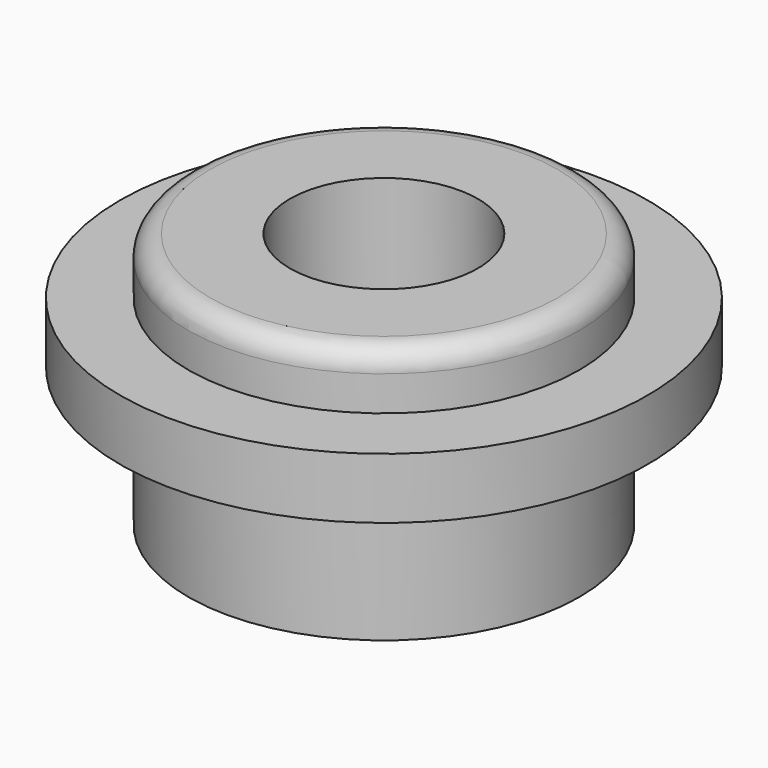
from build123d import *

# Parameters (mm, degrees)
F2_R     = 5
F3_R     = 25
F4_DEPTH = 10


with BuildPart() as f1:
    # F0 (on Front) → F1 (revolve)
    with BuildSketch(Plane.XZ):
        Polygon((-60.746692, 14), (-60.746692, 0), (-45, 0), (-45, -32), (-21.65, -32), (-21.65, 27), (-45, 27), (-45, 14), align=None)
    revolve(axis=Axis((0, 0, 28.312229), (0, 0, 1)))

    # F2
    f2_edges = [f1.edges().sort_by_distance(p)[0] for p in [
        (45, 0, 27),
    ]]
    fillet(f2_edges, radius=F2_R)

    # F3 (on face) → F4 (cut)
    with BuildSketch(Plane(origin=(0, 0, -32), x_dir=(1, 0, 0), z_dir=(0, 0, -1))):
        Circle(F3_R)
    extrude(amount=-F4_DEPTH, mode=Mode.SUBTRACT)


solid = f1.part
